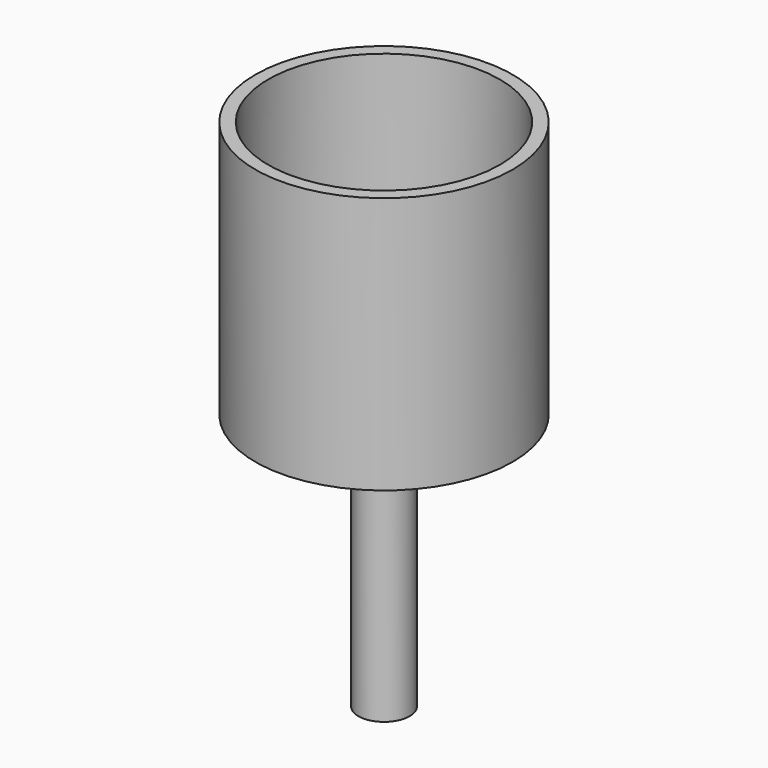
from build123d import *

# Parameters (mm, degrees)
F0_R     = 50
F0_R_2   = 45
F1_DEPTH = 100
F2_R     = 45
F3_DEPTH = 12.954
F4_R     = 7.5
F5_DEPTH = 12.954
F6_R     = 10
F6_R_2   = 7.5
F7_DEPTH = 100


with BuildPart() as f1:
    # F0 (on Top) → F1 (new body)
    with BuildSketch(Plane.XY):
        Circle(F0_R)
        Circle(F0_R_2, mode=Mode.SUBTRACT)
    extrude(amount=F1_DEPTH)

    # F2 (on face) → F3 (join)
    with BuildSketch(Plane(origin=(0, 0, 0), x_dir=(1, 0, 0), z_dir=(0, 0, -1))):
        Circle(F2_R)
    extrude(amount=-F3_DEPTH)

    # F4 (on face) → F5 (cut, through all)
    with BuildSketch(Plane(origin=(0, 0, 0), x_dir=(1, 0, 0), z_dir=(0, 0, -1))):
        Circle(F4_R)
    extrude(amount=-F5_DEPTH, mode=Mode.SUBTRACT)

    # F6 (on face) → F7 (join)
    with BuildSketch(Plane(origin=(0, 0, 0), x_dir=(1, 0, 0), z_dir=(0, 0, -1))):
        Circle(F6_R)
        Circle(F6_R_2, mode=Mode.SUBTRACT)
    extrude(amount=F7_DEPTH)


solid = f1.part
